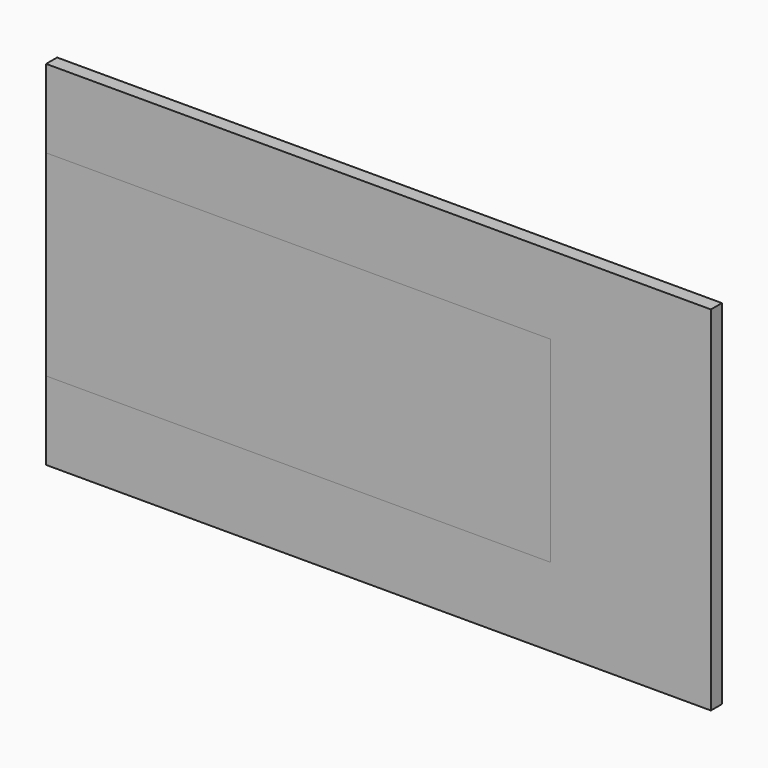
from build123d import *

# Parameters (mm, degrees)
F0_W     = 2410
F0_H     = 1280
F1_DEPTH = 50
F2_W     = 1829
F2_H     = 712
F3_DEPTH = 50


with BuildPart() as f1:
    # F0 (on Front) → F1 (new body)
    with BuildSketch(Plane.XZ):
        with Locations((8.208759, -66.355239)):
            Rectangle(F0_W, F0_H)
    extrude(amount=F1_DEPTH)


with BuildPart() as f3:
    # F2 (on face) → F3 (new body)
    with BuildSketch(Plane.XZ.offset(50)):
        with Locations((-282.291241, -66.355239)):
            Rectangle(F2_W, F2_H)
    extrude(amount=-F3_DEPTH)


solid = Compound([f1.part, f3.part])
